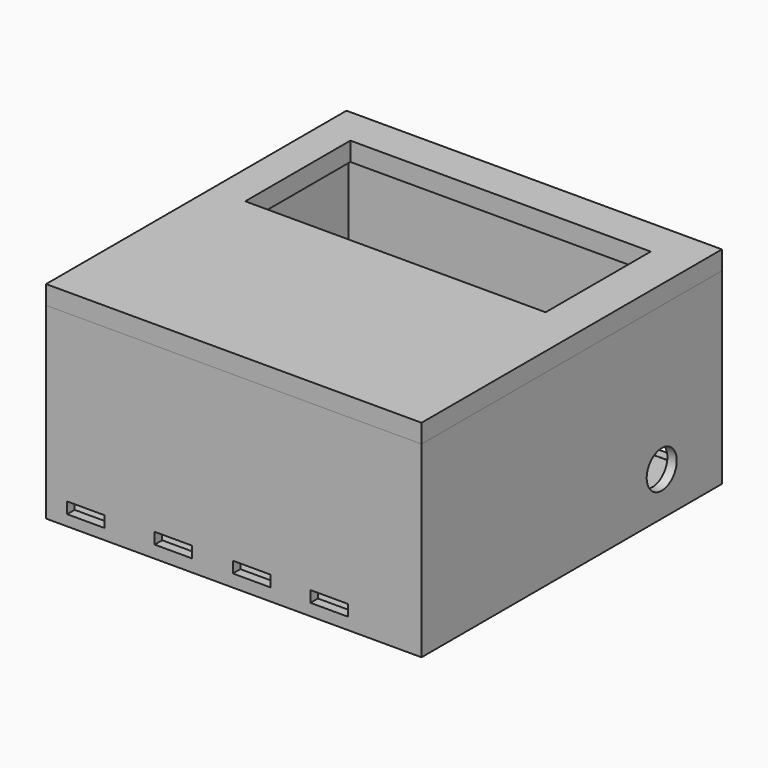
from build123d import *

# Parameters (mm, degrees)
F0_W      = 100
F0_H      = 100
F1_DEPTH  = 50
F2_T      = -2.5
F3_W      = 10
F3_H      = 3
F4_DEPTH  = 10
F5_W      = 10
F5_H      = 3
F6_DEPTH  = 10
F7_W      = 10
F7_H      = 3
F8_DEPTH  = 10
F9_R      = 5
F10_DEPTH = 10
F11_W     = 100
F11_H     = 100
F12_DEPTH = 5
F13_W     = 80
F13_H     = 35
F14_DEPTH = 5
F15_W     = 6
F15_H     = 50
F16_DEPTH = 5


with BuildPart() as f1:
    # F0 (on Top) → F1 (new body)
    with BuildSketch(Plane.XY):
        Rectangle(F0_W, F0_H)
    extrude(amount=F1_DEPTH)

    # F2
    f2_openings = [f1.faces().sort_by_distance(p)[0] for p in [
        (0, 0, 50),
    ]]
    offset(amount=F2_T, openings=f2_openings)

    # F3 (on face) → F4 (cut)
    with BuildSketch(Plane.XZ.offset(50)):
        with Locations((-39.376142, 4.362968)):
            Rectangle(F3_W, F3_H)
        with Locations((-16.083663, 4.813007)):
            Rectangle(F3_W, F3_H)
        with Locations((4.744422, 4.813007)):
            Rectangle(F3_W, F3_H)
        with Locations((25.413517, 4.654014)):
            Rectangle(F3_W, F3_H)
    extrude(amount=-F4_DEPTH, mode=Mode.SUBTRACT)

    # F5 (on face) → F6 (cut)
    with BuildSketch(Plane(origin=(0, 50, 0), x_dir=(-1, 0, 0), z_dir=(0, 1, 0))):
        with Locations((-35.735295, 4.059664)):
            Rectangle(F5_W, F5_H)
        with Locations((-14.198309, 4.20054)):
            Rectangle(F5_W, F5_H)
        with Locations((35.735295, 4.059664)):
            Rectangle(F5_W, F5_H)
        with Locations((14.198309, 4.20054)):
            Rectangle(F5_W, F5_H)
    extrude(amount=-F6_DEPTH, mode=Mode.SUBTRACT)

    # F7 (on face) → F8 (cut)
    with BuildSketch(Plane(origin=(-50, 0, 0), x_dir=(0, -1, 0), z_dir=(-1, 0, 0))):
        with Locations((-35.640758, 4.249729)):
            Rectangle(F7_W, F7_H)
        with Locations((-14.640759, 4.249729)):
            Rectangle(F7_W, F7_H)
        with Locations((35.640758, 4.249729)):
            Rectangle(F7_W, F7_H)
        with Locations((14.640759, 4.249729)):
            Rectangle(F7_W, F7_H)
    extrude(amount=-F8_DEPTH, mode=Mode.SUBTRACT)

    # F9 (on face) → F10 (cut)
    with BuildSketch(Plane.YZ.offset(50)):
        with Locations((29.961344, 11.568412)):
            Circle(F9_R)
    extrude(amount=-F10_DEPTH, mode=Mode.SUBTRACT)

    # F15 (on face) → F16 (join)
    with BuildSketch(Plane(origin=(0, 0, 0), x_dir=(1, 0, 0), z_dir=(0, 0, -1))):
        Rectangle(F15_W, F15_H)
    extrude(amount=F16_DEPTH)


with BuildPart() as f12:
    # F11 (on face) → F12 (new body)
    with BuildSketch(Plane.XY.offset(50)):
        Rectangle(F11_W, F11_H)
    extrude(amount=F12_DEPTH)

    # F13 (on face) → F14 (cut)
    with BuildSketch(Plane.XY.offset(55)):
        with Locations((-0.945378, 22.478993)):
            Rectangle(F13_W, F13_H)
    extrude(amount=-F14_DEPTH, mode=Mode.SUBTRACT)


solid = Compound([f1.part, f12.part])
